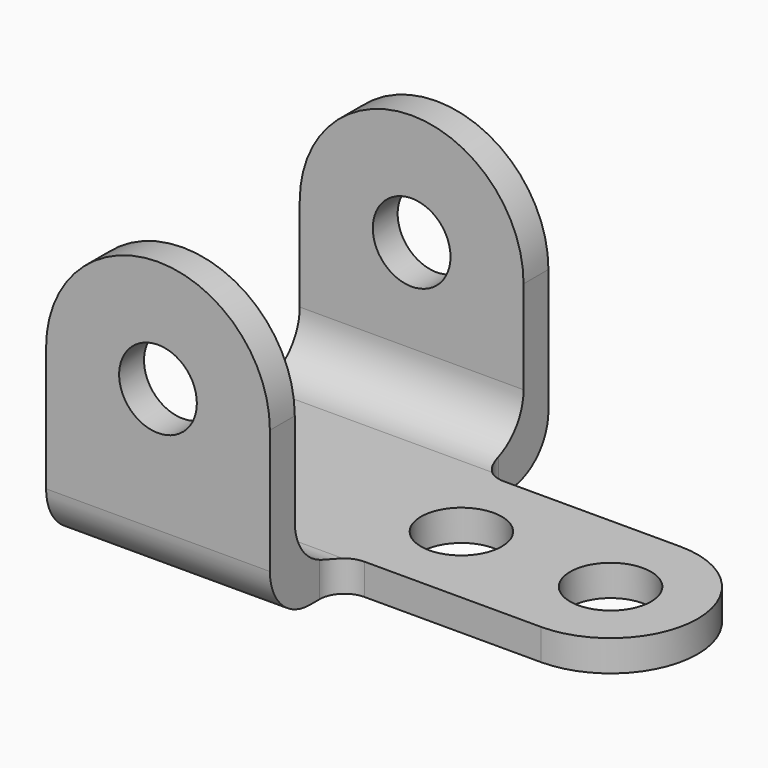
from build123d import *

# Parameters (mm, degrees)
F1_DEPTH      = 44.45
F2_W          = 73.025
F2_H          = 65.0875
F3_DEPTH      = 28.576
F3_DEPTH_BACK = 28.576
F4_R          = 9.92251
F5_DEPTH      = 88.901
F7_DEPTH      = 7.9375
F8_R          = 10.3251
F9_DEPTH      = 7.9385
F10_R         = 6.35
F11_R         = 12.7


with BuildPart() as f1:
    # F0 (on Front) → F1 (new body, symmetric)
    with BuildSketch(Plane.XZ):
        with BuildLine():
            Line((-28.575, 44.45), (-28.575, 0))
            Line((-28.575, 0), (28.575, 0))
            Line((28.575, 0), (28.575, 44.45))
            ThreePointArc((28.575, 44.45), (0, 73.025), (-28.575, 44.45))
        make_face()
    extrude(amount=F1_DEPTH, both=True)

    # F2 (on Right) → F3 (cut, two sides)
    with BuildSketch(Plane.YZ) as f3_sk:
        with Locations((0, 40.48125)):
            Rectangle(F2_W, F2_H)
    extrude(amount=-F3_DEPTH, mode=Mode.SUBTRACT)
    extrude(f3_sk.sketch, amount=F3_DEPTH_BACK, mode=Mode.SUBTRACT)

    # F4 (on face) → F5 (cut, through all)
    with BuildSketch(Plane.XZ.offset(44.45)):
        with Locations((0, 44.45)):
            Circle(F4_R)
    extrude(amount=-F5_DEPTH, mode=Mode.SUBTRACT)

    # F6 (on Top) → F7 (join)
    with BuildSketch(Plane.XY):
        with BuildLine():
            Line((80.01, 22.225), (28.575, 22.225))
            Line((28.575, 22.225), (28.575, -22.225))
            Line((28.575, -22.225), (80.01, -22.225))
            ThreePointArc((80.01, -22.225), (102.235, 0), (80.01, 22.225))
        make_face()
    extrude(amount=F7_DEPTH)

    # F8 (on face) → F9 (cut, through all)
    with BuildSketch(Plane.XY.offset(7.9375)):
        with Locations((41.91, 0)):
            Circle(F8_R)
        with Locations((80.01, 0)):
            Circle(F8_R)
    extrude(amount=-F9_DEPTH, mode=Mode.SUBTRACT)

    # F10
    f10_edges = [f1.edges().sort_by_distance(p)[0] for p in [
        (28.575, -22.225, 3.96875),
        (28.575, 22.225, 3.96875),
    ]]
    fillet(f10_edges, radius=F10_R)

    # F11
    f11_edges = [f1.edges().sort_by_distance(p)[0] for p in [
        (0, -36.5125, 7.9375),
        (0, 36.5125, 7.9375),
        (0, -44.45, 0),
        (0, 44.45, 0),
    ]]
    fillet(f11_edges, radius=F11_R)


solid = f1.part
